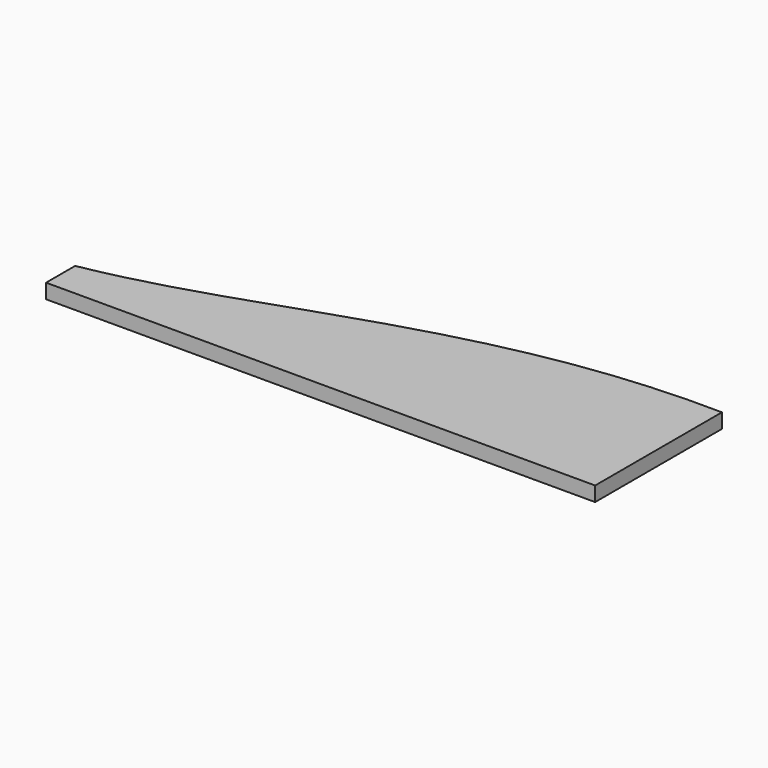
from build123d import *

# Parameters (mm, degrees)
F0_W     = 75
F0_H     = 58
F1_DEPTH = 2
F3_DEPTH = 2


with BuildPart() as f1:
    # F0 (on Top) → F1 (new body)
    with BuildSketch(Plane.XY):
        Rectangle(F0_W, F0_H)
    extrude(amount=F1_DEPTH)

    # F2 (on Top) → F3 (intersect)
    with BuildSketch(Plane.XY):
        with BuildLine():
            Line((-75, 4), (-75, 0))
            Line((-75, 0), (74, 0))
            Line((74, 0), (74, 14))
            add(Edge.make_bspline(
                [(74, 14), (67.6388412304, 16.3537582533), (51.4171196847, 21.7863158371), (22.3113142588, 22.1788320607), (-7.1359706329, 14.8570185355), (-34.1996854131, 4), (-47.6520620286, 4)],
                knots=[0, 0, 0, 0, 0.21706108, 0.457841902, 0.7085696798, 1, 1, 1, 1], degree=3))
            Line((-47.6520620286, 4), (-75, 4))
        make_face()
    extrude(amount=F3_DEPTH, mode=Mode.INTERSECT)


solid = f1.part
